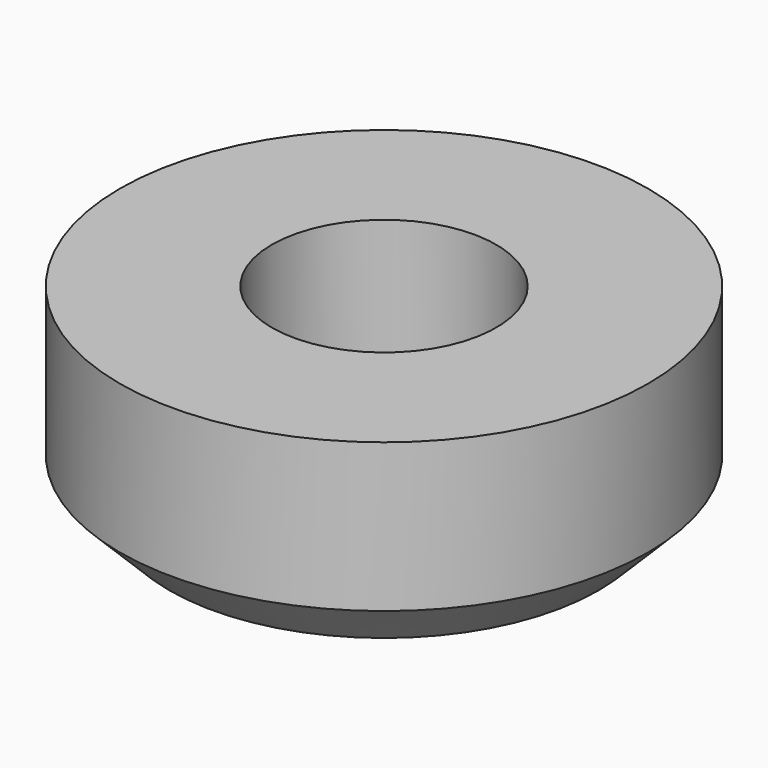
from build123d import *

# Parameters (mm, degrees)
F0_R     = 8
F2_DEPTH = 6
F3_D     = 6.8
F3_DEPTH = 13.8976
F3_TIP   = 2.0429261047
F4_SIZE  = 1.5
F6_D     = 2
F6_DEPTH = 3
F6_TIP   = 0.600860619


with BuildPart() as f2:
    # F0 (on Top) → F2 (new body)
    with BuildSketch(Plane.XY):
        Circle(F0_R)
    extrude(amount=-F2_DEPTH)

    # F3
    with Locations(Plane.XY):
        with Locations((0, 0)):
            Hole(F3_D / 2, depth=F3_DEPTH)
            with Locations((0, 0, -(F3_DEPTH + F3_TIP / 2))):  # 118° drill point
                Cone(0, F3_D / 2, F3_TIP, mode=Mode.SUBTRACT)

    # F4
    f4_edges = [f2.edges().sort_by_distance(p)[0] for p in [
        (-8, 0, -6),
    ]]
    chamfer(f4_edges, length=F4_SIZE)

    # F6
    with Locations(Plane(origin=(0, 0, -6), x_dir=(1, 0, 0), z_dir=(0, 0, -1))):
        with Locations((-5, 0), (5, 0)):
            Hole(F6_D / 2, depth=F6_DEPTH)
            with Locations((0, 0, -(F6_DEPTH + F6_TIP / 2))):  # 118° drill point
                Cone(0, F6_D / 2, F6_TIP, mode=Mode.SUBTRACT)


solid = f2.part
